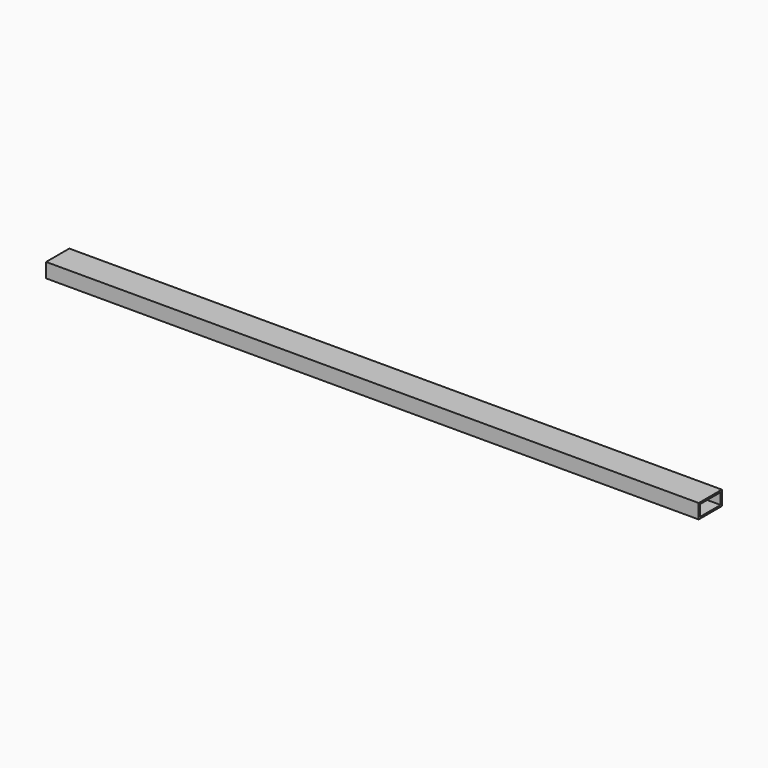
from build123d import *

# Parameters (mm, degrees)
F0_W     = 40
F0_H     = 20
F0_W_2   = 35.4
F0_H_2   = 15.4
F1_DEPTH = 900


with BuildPart() as f1:
    # F0 (on Right) → F1 (new body)
    with BuildSketch(Plane.YZ):
        Rectangle(F0_W, F0_H)
        Rectangle(F0_W_2, F0_H_2, mode=Mode.SUBTRACT)
    extrude(amount=-F1_DEPTH)


solid = f1.part
